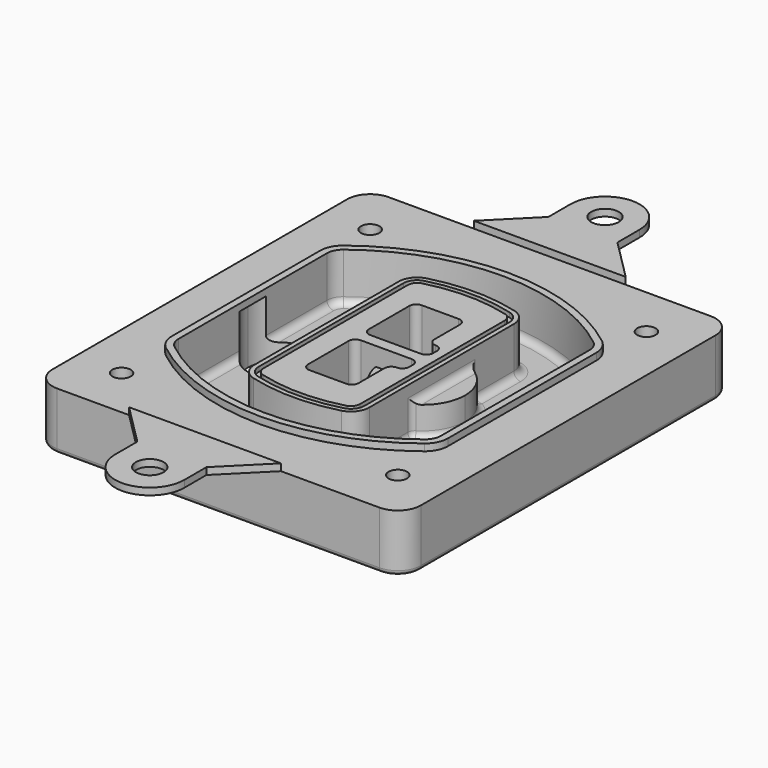
from build123d import *

# Parameters (mm, degrees)
F0_R      = 4
F1_DEPTH  = 25
F2_DEPTH  = 3
F3_DEPTH  = 18
F5_DEPTH  = 21
F6_DEPTH  = 2
F8_DEPTH  = 20
F9_DEPTH  = 16
F10_DEPTH = 25
F7_R      = 6
F7_R_2    = 4
F11_DEPTH = 6
F13_DEPTH = 9
F14_R     = 3
F15_R     = 2
F16_R     = 6
F17_DEPTH = 3


with BuildPart() as f1:
    # F0 (on Top) → F1 (new body)
    with BuildSketch(Plane.XY):
        with BuildLine():
            ThreePointArc((14.05, 38.3825811321), (16.9789321881, 31.3115133202), (24.05, 28.3825811321))
            Line((24.05, 28.3825811321), (164.05, 28.3825811321))
            ThreePointArc((164.05, 28.3825811321), (171.1210678119, 31.3115133202), (174.05, 38.3825811321))
            Line((174.05, 38.3825811321), (174.05, 198.3825811321))
            ThreePointArc((174.05, 198.3825811321), (171.1210678119, 205.4536489439), (164.05, 208.3825811321))
            Line((164.05, 208.3825811321), (24.05, 208.3825811321))
            ThreePointArc((24.05, 208.3825811321), (16.9789321881, 205.4536489439), (14.05, 198.3825811321))
            Line((14.05, 198.3825811321), (14.05, 38.3825811321))
        make_face()
        with Locations((34.05, 50.8825811321)):
            Circle(F0_R, mode=Mode.SUBTRACT)
        with Locations((154.05, 50.8825811321)):
            Circle(F0_R, mode=Mode.SUBTRACT)
        with BuildLine():
            ThreePointArc((30.05, 158.6760234193), (31.4679615202, 164.8154295545), (35.4346153846, 169.7112011673))
            ThreePointArc((35.4346153846, 169.7112011673), (94.05, 189.8825811321), (152.6653846154, 169.7112011673))
            ThreePointArc((152.6653846154, 169.7112011673), (156.6320384798, 164.8154295545), (158.05, 158.6760234193))
            Line((158.05, 158.6760234193), (158.05, 78.0891388448))
            ThreePointArc((158.05, 78.0891388448), (156.6320384798, 71.9497327097), (152.6653846154, 67.0539610969))
            ThreePointArc((152.6653846154, 67.0539610969), (94.05, 46.8825811321), (35.4346153846, 67.0539610969))
            ThreePointArc((35.4346153846, 67.0539610969), (31.4679615202, 71.9497327097), (30.05, 78.0891388448))
            Line((30.05, 78.0891388448), (30.05, 158.6760234193))
        make_face(mode=Mode.SUBTRACT)
        with Locations((34.05, 185.8825811321)):
            Circle(F0_R, mode=Mode.SUBTRACT)
        with Locations((154.05, 185.8825811321)):
            Circle(F0_R, mode=Mode.SUBTRACT)
        with BuildLine():
            ThreePointArc((152.6653846154, 169.7112011673), (94.05, 189.8825811321), (35.4346153846, 169.7112011673))
            ThreePointArc((35.4346153846, 169.7112011673), (31.4679615202, 164.8154295545), (30.05, 158.6760234193))
            Line((30.05, 158.6760234193), (30.05, 78.0891388448))
            ThreePointArc((30.05, 78.0891388448), (31.4679615202, 71.9497327097), (35.4346153846, 67.0539610969))
            ThreePointArc((35.4346153846, 67.0539610969), (94.05, 46.8825811321), (152.6653846154, 67.0539610969))
            ThreePointArc((152.6653846154, 67.0539610969), (156.6320384798, 71.9497327097), (158.05, 78.0891388448))
            Line((158.05, 78.0891388448), (158.05, 158.6760234193))
            ThreePointArc((158.05, 158.6760234193), (156.6320384798, 164.8154295545), (152.6653846154, 169.7112011673))
        make_face()
        with BuildLine():
            Line((34.05, 78.0891388448), (34.05, 158.6760234193))
            ThreePointArc((34.05, 158.6760234193), (35.0628296573, 163.0613135158), (37.8961538462, 166.5582932393))
            ThreePointArc((37.8961538462, 166.5582932393), (94.05, 185.8825811321), (150.2038461538, 166.5582932393))
            ThreePointArc((150.2038461538, 166.5582932393), (153.0371703427, 163.0613135158), (154.05, 158.6760234193))
            Line((154.05, 158.6760234193), (154.05, 78.0891388448))
            ThreePointArc((154.05, 78.0891388448), (153.0371703427, 73.7038487483), (150.2038461538, 70.2068690248))
            ThreePointArc((150.2038461538, 70.2068690248), (94.05, 50.8825811321), (37.8961538462, 70.2068690248))
            ThreePointArc((37.8961538462, 70.2068690248), (35.0628296573, 73.7038487483), (34.05, 78.0891388448))
        make_face(mode=Mode.SUBTRACT)
        with BuildLine():
            ThreePointArc((37.8961538462, 166.5582932393), (35.0628296573, 163.0613135158), (34.05, 158.6760234193))
            Line((34.05, 158.6760234193), (34.05, 78.0891388448))
            ThreePointArc((34.05, 78.0891388448), (35.0628296573, 73.7038487483), (37.8961538462, 70.2068690248))
            ThreePointArc((37.8961538462, 70.2068690248), (94.05, 50.8825811321), (150.2038461538, 70.2068690248))
            ThreePointArc((150.2038461538, 70.2068690248), (153.0371703427, 73.7038487483), (154.05, 78.0891388448))
            Line((154.05, 78.0891388448), (154.05, 158.6760234193))
            ThreePointArc((154.05, 158.6760234193), (153.0371703427, 163.0613135158), (150.2038461538, 166.5582932393))
            ThreePointArc((150.2038461538, 166.5582932393), (94.05, 185.8825811321), (37.8961538462, 166.5582932393))
        make_face()
        with BuildLine():
            ThreePointArc((148.3576923077, 164.1936122933), (150.3410192399, 161.7457264869), (151.05, 158.6760234193))
            Line((151.05, 158.6760234193), (151.05, 78.0891388448))
            ThreePointArc((151.05, 78.0891388448), (150.3410192399, 75.0194357772), (148.3576923077, 72.5715499708))
            ThreePointArc((148.3576923077, 72.5715499708), (94.05, 53.8825811321), (39.7423076923, 72.5715499708))
            ThreePointArc((39.7423076923, 72.5715499708), (37.7589807601, 75.0194357772), (37.05, 78.0891388448))
            Line((37.05, 78.0891388448), (37.05, 158.6760234193))
            ThreePointArc((37.05, 158.6760234193), (37.7589807601, 161.7457264869), (39.7423076923, 164.1936122933))
            ThreePointArc((39.7423076923, 164.1936122933), (94.05, 182.8825811321), (148.3576923077, 164.1936122933))
        make_face(mode=Mode.SUBTRACT)
        with BuildLine():
            Line((151.05, 78.0891388448), (151.05, 158.6760234193))
            ThreePointArc((151.05, 158.6760234193), (150.3410192399, 161.7457264869), (148.3576923077, 164.1936122933))
            ThreePointArc((148.3576923077, 164.1936122933), (94.05, 182.8825811321), (39.7423076923, 164.1936122933))
            ThreePointArc((39.7423076923, 164.1936122933), (37.7589807601, 161.7457264869), (37.05, 158.6760234193))
            Line((37.05, 158.6760234193), (37.05, 78.0891388448))
            ThreePointArc((37.05, 78.0891388448), (37.7589807601, 75.0194357772), (39.7423076923, 72.5715499708))
            ThreePointArc((39.7423076923, 72.5715499708), (94.05, 53.8825811321), (148.3576923077, 72.5715499708))
            ThreePointArc((148.3576923077, 72.5715499708), (150.3410192399, 75.0194357772), (151.05, 78.0891388448))
        make_face()
    extrude(amount=-F1_DEPTH)

    # F0 (on Top) → F2 (join)
    with BuildSketch(Plane.XY):
        with BuildLine():
            ThreePointArc((37.8961538462, 166.5582932393), (35.0628296573, 163.0613135158), (34.05, 158.6760234193))
            Line((34.05, 158.6760234193), (34.05, 78.0891388448))
            ThreePointArc((34.05, 78.0891388448), (35.0628296573, 73.7038487483), (37.8961538462, 70.2068690248))
            ThreePointArc((37.8961538462, 70.2068690248), (94.05, 50.8825811321), (150.2038461538, 70.2068690248))
            ThreePointArc((150.2038461538, 70.2068690248), (153.0371703427, 73.7038487483), (154.05, 78.0891388448))
            Line((154.05, 78.0891388448), (154.05, 158.6760234193))
            ThreePointArc((154.05, 158.6760234193), (153.0371703427, 163.0613135158), (150.2038461538, 166.5582932393))
            ThreePointArc((150.2038461538, 166.5582932393), (94.05, 185.8825811321), (37.8961538462, 166.5582932393))
        make_face()
        with BuildLine():
            ThreePointArc((148.3576923077, 164.1936122933), (150.3410192399, 161.7457264869), (151.05, 158.6760234193))
            Line((151.05, 158.6760234193), (151.05, 78.0891388448))
            ThreePointArc((151.05, 78.0891388448), (150.3410192399, 75.0194357772), (148.3576923077, 72.5715499708))
            ThreePointArc((148.3576923077, 72.5715499708), (94.05, 53.8825811321), (39.7423076923, 72.5715499708))
            ThreePointArc((39.7423076923, 72.5715499708), (37.7589807601, 75.0194357772), (37.05, 78.0891388448))
            Line((37.05, 78.0891388448), (37.05, 158.6760234193))
            ThreePointArc((37.05, 158.6760234193), (37.7589807601, 161.7457264869), (39.7423076923, 164.1936122933))
            ThreePointArc((39.7423076923, 164.1936122933), (94.05, 182.8825811321), (148.3576923077, 164.1936122933))
        make_face(mode=Mode.SUBTRACT)
    extrude(amount=F2_DEPTH)

    # F0 (on Top) → F3 (cut)
    with BuildSketch(Plane.XY):
        with BuildLine():
            Line((151.05, 78.0891388448), (151.05, 158.6760234193))
            ThreePointArc((151.05, 158.6760234193), (150.3410192399, 161.7457264869), (148.3576923077, 164.1936122933))
            ThreePointArc((148.3576923077, 164.1936122933), (94.05, 182.8825811321), (39.7423076923, 164.1936122933))
            ThreePointArc((39.7423076923, 164.1936122933), (37.7589807601, 161.7457264869), (37.05, 158.6760234193))
            Line((37.05, 158.6760234193), (37.05, 78.0891388448))
            ThreePointArc((37.05, 78.0891388448), (37.7589807601, 75.0194357772), (39.7423076923, 72.5715499708))
            ThreePointArc((39.7423076923, 72.5715499708), (94.05, 53.8825811321), (148.3576923077, 72.5715499708))
            ThreePointArc((148.3576923077, 72.5715499708), (150.3410192399, 75.0194357772), (151.05, 78.0891388448))
        make_face()
    extrude(amount=-F3_DEPTH, mode=Mode.SUBTRACT)

    # F4 (on face) → F5 (join, through all)
    with BuildSketch(Plane.XY.offset(3)):
        with BuildLine():
            ThreePointArc((69.05, 79.13605345), (70.6988454002, 74.2716074128), (74.9657088123, 71.4123412437))
            ThreePointArc((74.9657088123, 71.4123412437), (94.05, 68.8825811321), (113.1342911877, 71.4123412437))
            ThreePointArc((113.1342911877, 71.4123412437), (117.4011545998, 74.2716074128), (119.05, 79.13605345))
            Line((119.05, 79.13605345), (119.05, 157.6291088141))
            ThreePointArc((119.05, 157.6291088141), (117.4011545998, 162.4935548514), (113.1342911877, 165.3528210204))
            ThreePointArc((113.1342911877, 165.3528210204), (94.05, 167.8825811321), (74.9657088123, 165.3528210204))
            ThreePointArc((74.9657088123, 165.3528210204), (70.6988454002, 162.4935548514), (69.05, 157.6291088141))
            Line((69.05, 157.6291088141), (69.05, 79.13605345))
        make_face()
        with BuildLine():
            ThreePointArc((112.6132183908, 163.4218929688), (115.8133659499, 161.2774433421), (117.05, 157.6291088141))
            Line((117.05, 157.6291088141), (117.05, 79.13605345))
            ThreePointArc((117.05, 79.13605345), (115.8133659499, 75.4877189221), (112.6132183908, 73.3432692953))
            ThreePointArc((112.6132183908, 73.3432692953), (94.05, 70.8825811321), (75.4867816092, 73.3432692953))
            ThreePointArc((75.4867816092, 73.3432692953), (72.2866340501, 75.4877189221), (71.05, 79.13605345))
            Line((71.05, 79.13605345), (71.05, 157.6291088141))
            ThreePointArc((71.05, 157.6291088141), (72.2866340501, 161.2774433421), (75.4867816092, 163.4218929688))
            ThreePointArc((75.4867816092, 163.4218929688), (94.05, 165.8825811321), (112.6132183908, 163.4218929688))
        make_face(mode=Mode.SUBTRACT)
        with BuildLine():
            Line((117.05, 79.13605345), (117.05, 157.6291088141))
            ThreePointArc((117.05, 157.6291088141), (115.8133659499, 161.2774433421), (112.6132183908, 163.4218929688))
            ThreePointArc((112.6132183908, 163.4218929688), (94.05, 165.8825811321), (75.4867816092, 163.4218929688))
            ThreePointArc((75.4867816092, 163.4218929688), (72.2866340501, 161.2774433421), (71.05, 157.6291088141))
            Line((71.05, 157.6291088141), (71.05, 79.13605345))
            ThreePointArc((71.05, 79.13605345), (72.2866340501, 75.4877189221), (75.4867816092, 73.3432692953))
            ThreePointArc((75.4867816092, 73.3432692953), (94.05, 70.8825811321), (112.6132183908, 73.3432692953))
            ThreePointArc((112.6132183908, 73.3432692953), (115.8133659499, 75.4877189221), (117.05, 79.13605345))
        make_face()
        with BuildLine():
            ThreePointArc((112.0921455939, 161.4909649173), (114.2255772999, 160.0613318328), (115.05, 157.6291088141))
            Line((115.05, 157.6291088141), (115.05, 79.13605345))
            ThreePointArc((115.05, 79.13605345), (114.2255772999, 76.7038304314), (112.0921455939, 75.2741973469))
            ThreePointArc((112.0921455939, 75.2741973469), (94.05, 72.8825811321), (76.0078544061, 75.2741973469))
            ThreePointArc((76.0078544061, 75.2741973469), (73.8744227001, 76.7038304314), (73.05, 79.13605345))
            Line((73.05, 79.13605345), (73.05, 157.6291088141))
            ThreePointArc((73.05, 157.6291088141), (73.8744227001, 160.0613318328), (76.0078544061, 161.4909649173))
            ThreePointArc((76.0078544061, 161.4909649173), (94.05, 163.8825811321), (112.0921455939, 161.4909649173))
        make_face(mode=Mode.SUBTRACT)
        with BuildLine():
            Line((115.05, 79.13605345), (115.05, 157.6291088141))
            ThreePointArc((115.05, 157.6291088141), (114.2255772999, 160.0613318328), (112.0921455939, 161.4909649173))
            ThreePointArc((112.0921455939, 161.4909649173), (94.05, 163.8825811321), (76.0078544061, 161.4909649173))
            ThreePointArc((76.0078544061, 161.4909649173), (73.8744227001, 160.0613318328), (73.05, 157.6291088141))
            Line((73.05, 157.6291088141), (73.05, 79.13605345))
            ThreePointArc((73.05, 79.13605345), (73.8744227001, 76.7038304314), (76.0078544061, 75.2741973469))
            ThreePointArc((76.0078544061, 75.2741973469), (94.05, 72.8825811321), (112.0921455939, 75.2741973469))
            ThreePointArc((112.0921455939, 75.2741973469), (114.2255772999, 76.7038304314), (115.05, 79.13605345))
        make_face()
        with BuildLine():
            Line((86.05, 115.8825811321), (108.05, 115.8825811321))
            ThreePointArc((108.05, 115.8825811321), (110.1713203436, 115.0039014756), (111.05, 112.8825811321))
            Line((111.05, 112.8825811321), (111.05, 110.8825811321))
            ThreePointArc((111.05, 110.8825811321), (110.1713203436, 108.7612607885), (108.05, 107.8825811321))
            ThreePointArc((108.05, 107.8825811321), (105.9286796564, 107.0039014756), (105.05, 104.8825811321))
            Line((105.05, 104.8825811321), (105.05, 90.8825811321))
            ThreePointArc((105.05, 90.8825811321), (104.1713203436, 88.7612607885), (102.05, 87.8825811321))
            Line((102.05, 87.8825811321), (86.05, 87.8825811321))
            ThreePointArc((86.05, 87.8825811321), (83.9286796564, 88.7612607885), (83.05, 90.8825811321))
            Line((83.05, 90.8825811321), (83.05, 112.8825811321))
            ThreePointArc((83.05, 112.8825811321), (83.9286796564, 115.0039014756), (86.05, 115.8825811321))
        make_face(mode=Mode.SUBTRACT)
        with BuildLine():
            ThreePointArc((86.05, 120.8825811321), (83.9286796564, 121.7612607885), (83.05, 123.8825811321))
            Line((83.05, 123.8825811321), (83.05, 145.8825811321))
            ThreePointArc((83.05, 145.8825811321), (83.9286796564, 148.0039014756), (86.05, 148.8825811321))
            Line((86.05, 148.8825811321), (102.05, 148.8825811321))
            ThreePointArc((102.05, 148.8825811321), (104.1713203436, 148.0039014756), (105.05, 145.8825811321))
            Line((105.05, 145.8825811321), (105.05, 131.8825811321))
            ThreePointArc((105.05, 131.8825811321), (105.9286796564, 129.7612607885), (108.05, 128.8825811321))
            ThreePointArc((108.05, 128.8825811321), (110.1713203436, 128.0039014756), (111.05, 125.8825811321))
            Line((111.05, 125.8825811321), (111.05, 123.8825811321))
            ThreePointArc((111.05, 123.8825811321), (110.1713203436, 121.7612607885), (108.05, 120.8825811321))
            Line((108.05, 120.8825811321), (86.05, 120.8825811321))
        make_face(mode=Mode.SUBTRACT)
    extrude(amount=-F5_DEPTH)

    # F4 (on face) → F6 (cut)
    with BuildSketch(Plane.XY.offset(3)):
        with BuildLine():
            Line((117.05, 79.13605345), (117.05, 157.6291088141))
            ThreePointArc((117.05, 157.6291088141), (115.8133659499, 161.2774433421), (112.6132183908, 163.4218929688))
            ThreePointArc((112.6132183908, 163.4218929688), (94.05, 165.8825811321), (75.4867816092, 163.4218929688))
            ThreePointArc((75.4867816092, 163.4218929688), (72.2866340501, 161.2774433421), (71.05, 157.6291088141))
            Line((71.05, 157.6291088141), (71.05, 79.13605345))
            ThreePointArc((71.05, 79.13605345), (72.2866340501, 75.4877189221), (75.4867816092, 73.3432692953))
            ThreePointArc((75.4867816092, 73.3432692953), (94.05, 70.8825811321), (112.6132183908, 73.3432692953))
            ThreePointArc((112.6132183908, 73.3432692953), (115.8133659499, 75.4877189221), (117.05, 79.13605345))
        make_face()
        with BuildLine():
            ThreePointArc((112.0921455939, 161.4909649173), (114.2255772999, 160.0613318328), (115.05, 157.6291088141))
            Line((115.05, 157.6291088141), (115.05, 79.13605345))
            ThreePointArc((115.05, 79.13605345), (114.2255772999, 76.7038304314), (112.0921455939, 75.2741973469))
            ThreePointArc((112.0921455939, 75.2741973469), (94.05, 72.8825811321), (76.0078544061, 75.2741973469))
            ThreePointArc((76.0078544061, 75.2741973469), (73.8744227001, 76.7038304314), (73.05, 79.13605345))
            Line((73.05, 79.13605345), (73.05, 157.6291088141))
            ThreePointArc((73.05, 157.6291088141), (73.8744227001, 160.0613318328), (76.0078544061, 161.4909649173))
            ThreePointArc((76.0078544061, 161.4909649173), (94.05, 163.8825811321), (112.0921455939, 161.4909649173))
        make_face(mode=Mode.SUBTRACT)
    extrude(amount=-F6_DEPTH, mode=Mode.SUBTRACT)

    # F7 (on face) → F8 (join)
    with BuildSketch(Plane(origin=(0, 0, -25), x_dir=(1, 0, 0), z_dir=(0, 0, -1))):
        with BuildLine():
            ThreePointArc((97.33842436, -118.3825811321), (110.8067035675, -104.9143019245), (124.274982775, -118.3825811321))
            Line((124.274982775, -118.3825811321), (129.274982775, -118.3825811321))
            ThreePointArc((129.274982775, -118.3825811321), (110.8067035675, -99.9143019245), (92.33842436, -118.3825811321))
            Line((92.33842436, -118.3825811321), (97.33842436, -118.3825811321))
        make_face()
        with BuildLine():
            Line((97.33842436, -118.3825811321), (124.274982775, -118.3825811321))
            ThreePointArc((124.274982775, -118.3825811321), (110.8067035675, -104.9143019245), (97.33842436, -118.3825811321))
        make_face()
        with BuildLine():
            ThreePointArc((97.33842436, -118.3825811321), (110.8067035675, -131.8508603396), (124.274982775, -118.3825811321))
            Line((124.274982775, -118.3825811321), (97.33842436, -118.3825811321))
        make_face()
        with BuildLine():
            Line((129.274982775, -118.3825811321), (124.274982775, -118.3825811321))
            ThreePointArc((124.274982775, -118.3825811321), (110.8067035675, -131.8508603396), (97.33842436, -118.3825811321))
            Line((97.33842436, -118.3825811321), (92.33842436, -118.3825811321))
            ThreePointArc((92.33842436, -118.3825811321), (110.8067035675, -136.8508603396), (129.274982775, -118.3825811321))
        make_face()
    extrude(amount=-F8_DEPTH)

    # F7 (on face) → F9 (cut)
    with BuildSketch(Plane(origin=(0, 0, -25), x_dir=(1, 0, 0), z_dir=(0, 0, -1))):
        with BuildLine():
            Line((97.33842436, -118.3825811321), (124.274982775, -118.3825811321))
            ThreePointArc((124.274982775, -118.3825811321), (110.8067035675, -104.9143019245), (97.33842436, -118.3825811321))
        make_face()
        with BuildLine():
            ThreePointArc((97.33842436, -118.3825811321), (110.8067035675, -131.8508603396), (124.274982775, -118.3825811321))
            Line((124.274982775, -118.3825811321), (97.33842436, -118.3825811321))
        make_face()
    extrude(amount=-F9_DEPTH, mode=Mode.SUBTRACT)

    # F7 (on face) → F10 (cut)
    with BuildSketch(Plane(origin=(0, 0, -25), x_dir=(1, 0, 0), z_dir=(0, 0, -1))):
        with BuildLine():
            Line((35.0181770675, -118.3825811321), (61.9547354825, -118.3825811321))
            ThreePointArc((61.9547354825, -118.3825811321), (48.486456275, -104.9143019245), (35.0181770675, -118.3825811321))
        make_face()
        with BuildLine():
            ThreePointArc((35.0181770675, -118.3825811321), (48.486456275, -131.8508603396), (61.9547354825, -118.3825811321))
            Line((61.9547354825, -118.3825811321), (35.0181770675, -118.3825811321))
        make_face()
    extrude(amount=-F10_DEPTH, mode=Mode.SUBTRACT)

    # F7 (on face) → F11 (cut)
    with BuildSketch(Plane(origin=(0, 0, -25), x_dir=(1, 0, 0), z_dir=(0, 0, -1))):
        with Locations((154.05, -185.8825811321)):
            Circle(F7_R)
        with Locations((154.05, -185.8825811321)):
            Circle(F7_R_2, mode=Mode.SUBTRACT)
        with Locations((154.05, -185.8825811321)):
            Circle(F7_R)
        with Locations((154.05, -185.8825811321)):
            Circle(F7_R_2, mode=Mode.SUBTRACT)
        with Locations((34.05, -185.8825811321)):
            Circle(F7_R)
        with Locations((34.05, -185.8825811321)):
            Circle(F7_R_2, mode=Mode.SUBTRACT)
        with Locations((34.05, -185.8825811321)):
            Circle(F7_R)
        with Locations((34.05, -185.8825811321)):
            Circle(F7_R_2, mode=Mode.SUBTRACT)
        with Locations((34.05, -50.8825811321)):
            Circle(F7_R)
        with Locations((34.05, -50.8825811321)):
            Circle(F7_R_2, mode=Mode.SUBTRACT)
        with Locations((34.05, -50.8825811321)):
            Circle(F7_R)
        with Locations((34.05, -50.8825811321)):
            Circle(F7_R_2, mode=Mode.SUBTRACT)
        with Locations((154.05, -50.8825811321)):
            Circle(F7_R)
        with Locations((154.05, -50.8825811321)):
            Circle(F7_R_2, mode=Mode.SUBTRACT)
        with Locations((154.05, -50.8825811321)):
            Circle(F7_R)
        with Locations((154.05, -50.8825811321)):
            Circle(F7_R_2, mode=Mode.SUBTRACT)
    extrude(amount=-F11_DEPTH, mode=Mode.SUBTRACT)

    # F12 (on face) → F13 (cut, through all)
    with BuildSketch(Plane(origin=(0, 0, -9), x_dir=(1, 0, 0), z_dir=(0, 0, -1))):
        with BuildLine():
            Line((105.05, -104.8825811321), (105.05, -100.8344273567))
            ThreePointArc((105.05, -100.8344273567), (96.6196536419, -106.5586667507), (92.5084157545, -115.8825811321))
            Line((92.5084157545, -115.8825811321), (97.5724848595, -115.8825811321))
            ThreePointArc((97.5724848595, -115.8825811321), (100.2357188154, -110.0369939039), (105.3036447004, -106.0898642673))
            ThreePointArc((105.3036447004, -106.0898642673), (105.1140958889, -105.4994012441), (105.05, -104.8825811321))
        make_face()
        with BuildLine():
            ThreePointArc((105.3036447004, -130.6752979968), (100.2357188154, -126.7281683602), (97.5724848595, -120.8825811321))
            Line((97.5724848595, -120.8825811321), (92.5084157545, -120.8825811321))
            ThreePointArc((92.5084157545, -120.8825811321), (96.6196536419, -130.2064955134), (105.05, -135.9307349074))
            Line((105.05, -135.9307349074), (105.05, -131.8825811321))
            ThreePointArc((105.05, -131.8825811321), (105.1140958889, -131.26576102), (105.3036447004, -130.6752979968))
        make_face()
        with BuildLine():
            ThreePointArc((105.3036447004, -106.0898642673), (100.2357188154, -110.0369939039), (97.5724848595, -115.8825811321))
            Line((97.5724848595, -115.8825811321), (108.05, -115.8825811321))
            ThreePointArc((108.05, -115.8825811321), (110.1713203436, -115.0039014756), (111.05, -112.8825811321))
            Line((111.05, -112.8825811321), (111.05, -110.8825811321))
            ThreePointArc((111.05, -110.8825811321), (110.1713203436, -108.7612607885), (108.05, -107.8825811321))
            ThreePointArc((108.05, -107.8825811321), (106.4101599782, -107.3947365219), (105.3036447004, -106.0898642673))
        make_face()
        with BuildLine():
            Line((108.05, -120.8825811321), (97.5724848595, -120.8825811321))
            ThreePointArc((97.5724848595, -120.8825811321), (100.2357188154, -126.7281683602), (105.3036447004, -130.6752979968))
            ThreePointArc((105.3036447004, -130.6752979968), (106.4101599782, -129.3704257422), (108.05, -128.8825811321))
            ThreePointArc((108.05, -128.8825811321), (110.1713203436, -128.0039014756), (111.05, -125.8825811321))
            Line((111.05, -125.8825811321), (111.05, -123.8825811321))
            ThreePointArc((111.05, -123.8825811321), (110.1713203436, -121.7612607885), (108.05, -120.8825811321))
        make_face()
    extrude(amount=F13_DEPTH, mode=Mode.SUBTRACT)

    # F14
    f14_edges = [f1.edges().sort_by_distance(p)[0] for p in [
        (37.05, 94.679105, -18),
        (37.05, 142.086057, -18),
        (119.05, 118.382581, -5),
        (119.05, 134.909087, -11.5),
        (119.05, 101.856075, -11.5),
        (119.05, 90.496064, -18),
        (129.274983, 118.382581, -18),
    ]]
    fillet(f14_edges, radius=F14_R)

    # F15
    f15_edges = [f1.edges().sort_by_distance(p)[0] for p in [
        (94.05, 28.382581, -25),
    ]]
    fillet(f15_edges, radius=F15_R)


with BuildPart() as f17:
    # F16 (on face) → F17 (new body, through all)
    with BuildSketch(Plane.XY):
        with BuildLine():
            Line((109.05, 226.3825811321), (109.05, 238.3825811321))
            ThreePointArc((109.05, 238.3825811321), (94.05, 253.3825811321), (79.05, 238.3825811321))
            Line((79.05, 238.3825811321), (79.05, 226.3825811321))
            Line((79.05, 226.3825811321), (61.05, 208.3825811321))
            Line((61.05, 208.3825811321), (127.05, 208.3825811321))
            Line((127.05, 208.3825811321), (109.05, 226.3825811321))
        make_face()
        with Locations((94.05, 238.3825811321)):
            Circle(F16_R, mode=Mode.SUBTRACT)
    extrude(amount=F17_DEPTH)


with BuildPart() as f17b:
    # F16 (on face) → F17, piece 2 (new body, through all)
    with BuildSketch(Plane.XY):
        with BuildLine():
            Line((103.3, 10.3825811321), (121.3, 28.3825811321))
            Line((121.3, 28.3825811321), (55.3, 28.3825811321))
            Line((55.3, 28.3825811321), (73.3, 10.3825811321))
            Line((73.3, 10.3825811321), (73.3, -1.6174188679))
            ThreePointArc((73.3, -1.6174188679), (88.3, -16.6174188679), (103.3, -1.6174188679))
            Line((103.3, -1.6174188679), (103.3, 10.3825811321))
        make_face()
        with Locations((88.3, -1.6174188679)):
            Circle(F16_R, mode=Mode.SUBTRACT)
    extrude(amount=F17_DEPTH)


solid = Compound([f1.part, f17.part, f17b.part])
